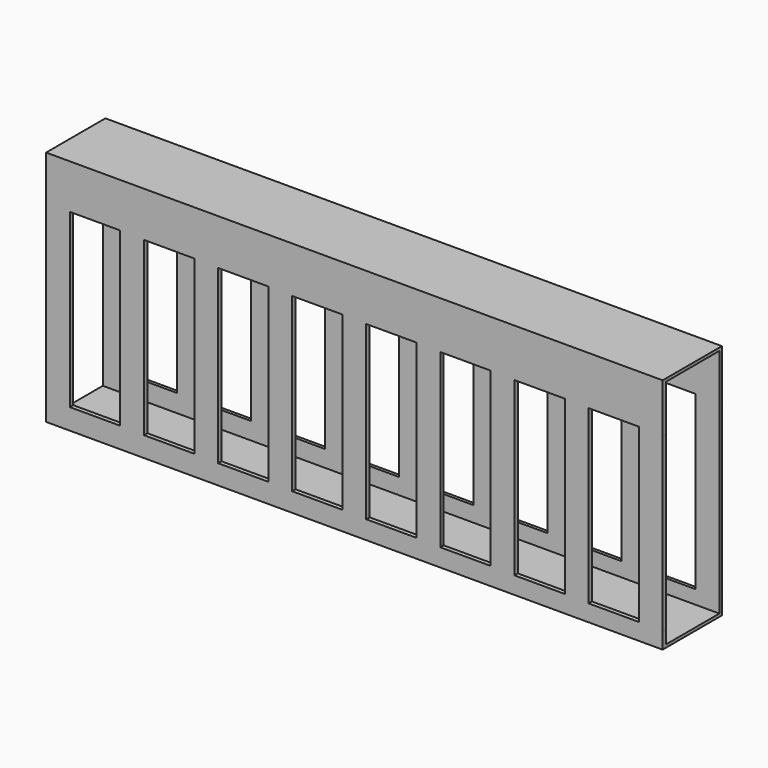
from build123d import *

# Parameters (mm, degrees)
SKETCH_W        = 25
SKETCH_H        = 80
PAD_DEPTH       = 208
SKETCH001_W     = 22.5
SKETCH001_H     = 78
POCKET_DEPTH    = 1000
SKETCH002_W     = 58
SKETCH002_H     = 17
POCKET001_DEPTH = 26


with BuildPart() as part:
    # Sketch → Pad (new body)
    with BuildSketch(Plane.YZ):
        with Locations((-0.181115, 40)):
            Rectangle(SKETCH_W, SKETCH_H)
    extrude(amount=PAD_DEPTH)

    # Sketch001 (on Face5 of Pad) → Pocket (cut)
    with BuildSketch(Plane(origin=(0, 0, 0), x_dir=(0, 1, 0), z_dir=(-1, 0, 0))):
        with Locations((0, -40)):
            Rectangle(SKETCH001_W, SKETCH001_H)
    extrude(amount=-POCKET_DEPTH, mode=Mode.SUBTRACT)

    # Sketch002 (on Face2 of Pocket) → Pocket001 (cut)
    with BuildSketch(Plane(origin=(0, -12.681115, 0), x_dir=(0, 0, -1), z_dir=(0, -1, 0))):
        with Locations((-36, 16.5)):
            Rectangle(SKETCH002_W, SKETCH002_H)
        with Locations((-35.802797, 41.499222)):
            Rectangle(SKETCH002_W, SKETCH002_H)
        with Locations((-35.605594, 66.498444)):
            Rectangle(SKETCH002_W, SKETCH002_H)
        with Locations((-35.408391, 91.497667)):
            Rectangle(SKETCH002_W, SKETCH002_H)
        with Locations((-35.211188, 116.496889)):
            Rectangle(SKETCH002_W, SKETCH002_H)
        with Locations((-35.013985, 141.496111)):
            Rectangle(SKETCH002_W, SKETCH002_H)
        with Locations((-34.816782, 166.495333)):
            Rectangle(SKETCH002_W, SKETCH002_H)
        with Locations((-34.619579, 191.494555)):
            Rectangle(SKETCH002_W, SKETCH002_H)
        with Locations((-34.422376, 216.493778)):
            Rectangle(SKETCH002_W, SKETCH002_H)
        with Locations((-34.225173, 241.493)):
            Rectangle(SKETCH002_W, SKETCH002_H)
    extrude(amount=-POCKET001_DEPTH, mode=Mode.SUBTRACT)


solid = part.part
